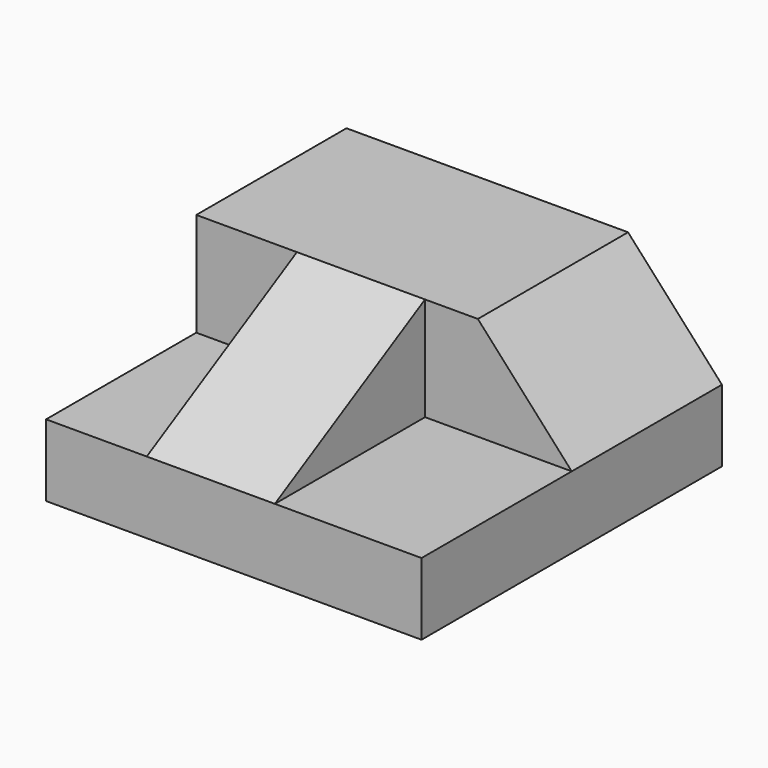
from build123d import *

# Parameters (mm, degrees)
F1_DEPTH = 25.4
F2_W     = 50.8
F2_H     = 9.7338882406
F3_DEPTH = 25.4
F4_W     = 17.3329235986
F4_H     = 14.0222670068
F5_DEPTH = 25.4
F7_DEPTH = 25.4


with BuildPart() as f1:
    # F0 (on Front) → F1 (new body)
    with BuildSketch(Plane.XZ):
        Polygon((0, 23.7561552475), (0, 0), (50.8, 0), (50.8, 9.7338882406), (38.1, 23.7561552475), align=None)
    extrude(amount=F1_DEPTH)

    # F2 (on face) → F3 (join)
    with BuildSketch(Plane.XZ.offset(25.4)):
        with Locations((25.4, 4.8669441203)):
            Rectangle(F2_W, F2_H)
    extrude(amount=F3_DEPTH)

    # F4 (on face) → F5 (join)
    with BuildSketch(Plane.XZ.offset(25.4)):
        with Locations((22.2851852886, 16.7450217441)):
            Rectangle(F4_W, F4_H)
    extrude(amount=F5_DEPTH)

    # F6 (on face) → F7 (cut)
    with BuildSketch(Plane.YZ.offset(30.9516470879)):
        Polygon((-50.8, 23.7561552475), (-50.8, 9.7338882406), (-25.4, 23.7561552475), align=None)
    extrude(amount=-F7_DEPTH, mode=Mode.SUBTRACT)


solid = f1.part
